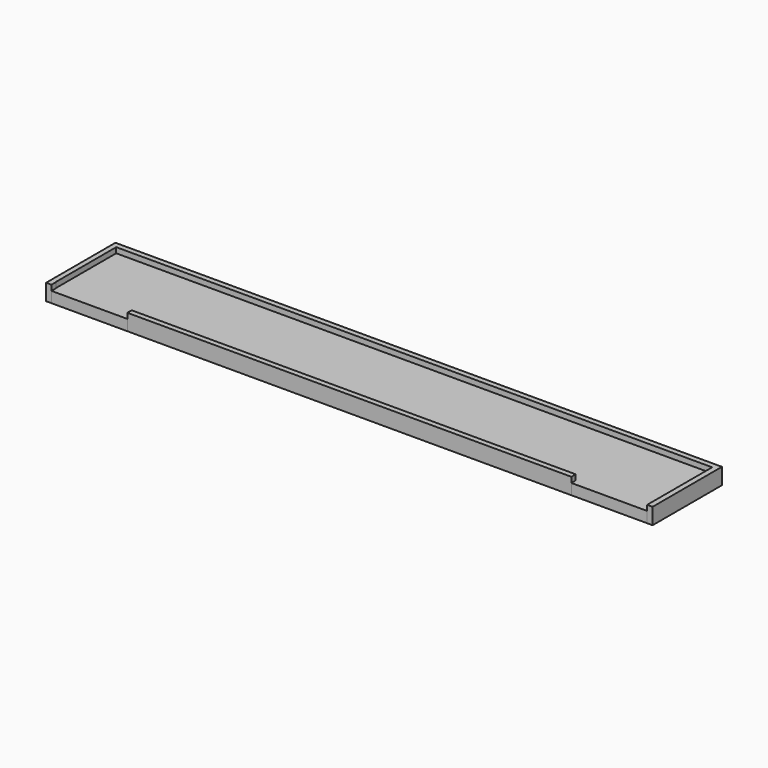
from build123d import *

# Parameters (mm, degrees)
F1_DEPTH = 9.525
F0_W     = 44.45
F0_H     = 3.175
F2_DEPTH = 6.35


with BuildPart() as f1:
    # F0 (on Top) → F1 (new body)
    with BuildSketch(Plane.XY):
        Polygon((-186.990649, 32.900563), (-186.990649, 29.725563), (-183.815649, 29.725563), (-183.815649, 32.900563), (-183.98888, 32.900563), (-183.98888, 77.350563), (165.434351, 77.350563), (165.434351, 32.900563), (165.434351, 29.725563), (168.609351, 29.725563), (168.609351, 32.900563), (168.609351, 77.350563), (168.609351, 80.525563), (165.434351, 80.525563), (-183.815649, 80.525563), (-186.990649, 80.525563), (-186.990649, 77.350563), align=None)
        Polygon((-139.365649, 32.900563), (-139.365649, 29.725563), (-136.190649, 29.725563), (117.809351, 29.725563), (120.984351, 29.725563), (120.984351, 32.900563), (117.809351, 32.900563), (-136.190649, 32.900563), align=None)
    extrude(amount=F1_DEPTH)


with BuildPart() as f2:
    # F0 (on Top) → F2 (new body)
    with BuildSketch(Plane.XY):
        Polygon((-183.98888, 32.900563), (-183.815649, 32.900563), (-139.365649, 32.900563), (-136.190649, 32.900563), (117.809351, 32.900563), (120.984351, 32.900563), (165.434351, 32.900563), (165.434351, 77.350563), (-183.98888, 77.350563), align=None)
        with Locations((-161.590649, 31.313063)):
            Rectangle(F0_W, F0_H)
        with Locations((143.209351, 31.313063)):
            Rectangle(F0_W, F0_H)
    extrude(amount=F2_DEPTH)


solid = Compound([f1.part, f2.part])
